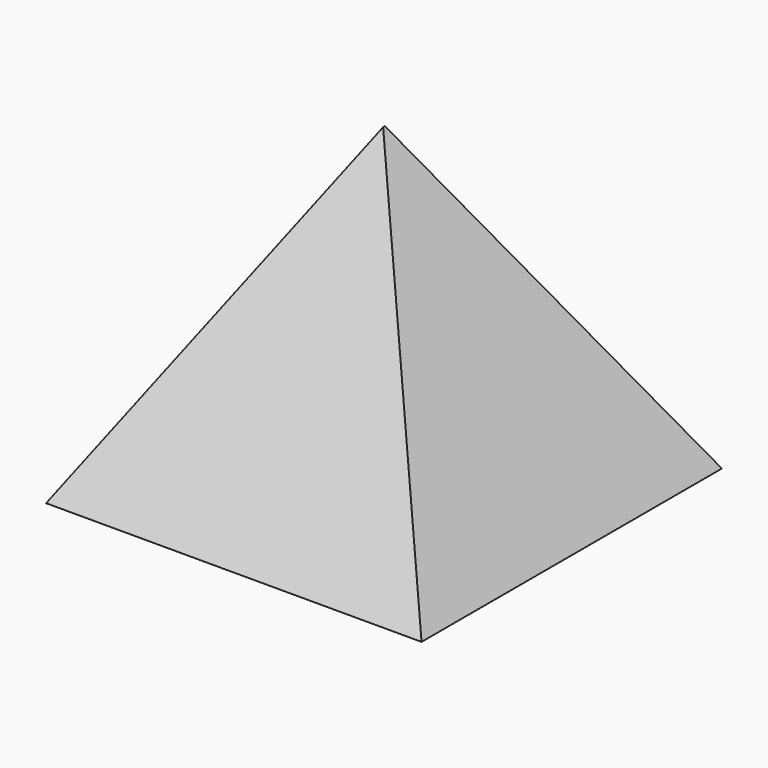
from build123d import *

# Parameters (mm, degrees)
F1_DEPTH = 25.4
F3_DEPTH = 25.4


with BuildPart() as f1:
    # F0 (on Front) → F1 (new body)
    with BuildSketch(Plane.XZ):
        Polygon((12.7, 21.394904), (0, 0), (25.4, 0), align=None)
    extrude(amount=F1_DEPTH)

    # F2 (on Right) → F3 (cut)
    with BuildSketch(Plane.YZ):
        Polygon((-12.699817, 21.519), (0, 0), (0, 21.519), align=None)
        Polygon((-25.4, 21.519), (-25.4, 0), (-12.700183, 21.519), align=None)
    extrude(amount=F3_DEPTH, mode=Mode.SUBTRACT)


solid = f1.part
